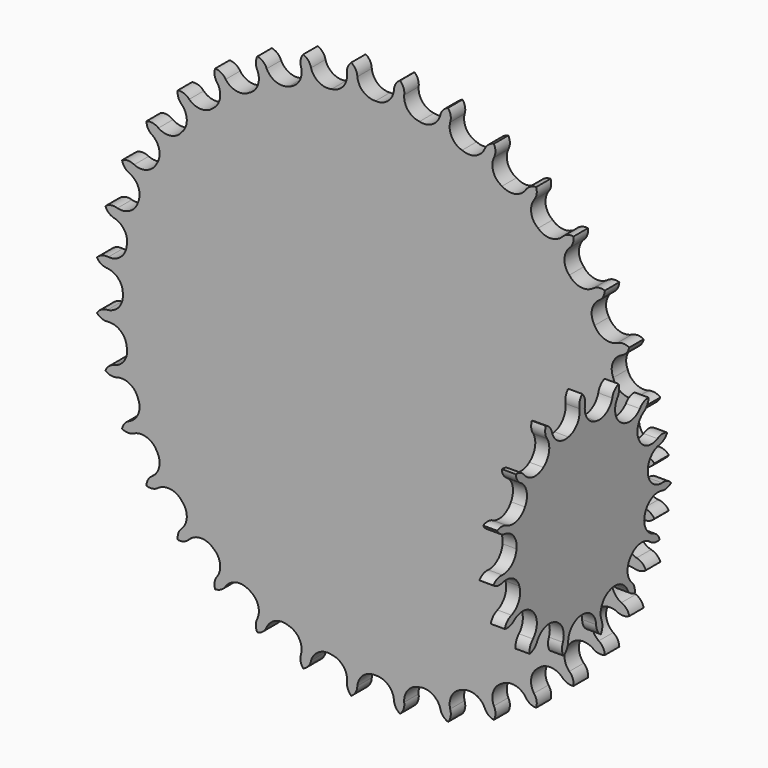
from build123d import *

# Parameters (mm, degrees)
F3_DEPTH  = 5
F4_DEPTH  = 3.8744
F5_SCALE  = 1.2905224035
F10_DEPTH = 5


with BuildPart() as f3:
    # F2 (on Front) → F3 (new body)
    with BuildSketch(Plane.XZ):
        with BuildLine():
            ThreePointArc((20.0489112304, -74.8235553482), (20.7684497693, -73.2376680729), (20.634084968, -71.5013730924))
            ThreePointArc((20.634084968, -71.5013730924), (21.1255658269, -67.9684537564), (23.9417031833, -65.7792888795))
            ThreePointArc((23.9417031833, -65.7792888795), (27.5061576147, -65.6461082686), (30.1535705707, -68.0365636874))
            ThreePointArc((30.1535705707, -68.0365636874), (31.1667100616, -69.4530108383), (32.7372972519, -70.2053605155))
            ThreePointArc((32.7372972519, -70.2053605155), (33.1705179483, -68.5186198753), (32.736689991, -66.8320353198))
            ThreePointArc((32.736689991, -66.8320353198), (32.6072191467, -63.2674442116), (35.0004285574, -60.6225205481))
            ThreePointArc((35.0004285574, -60.6225205481), (38.4876043464, -59.8724022336), (41.5098953781, -61.7668228279))
            ThreePointArc((41.5098953781, -61.7668228279), (42.7536064701, -62.9858211375), (44.4309770623, -63.4540113292))
            ThreePointArc((44.4309770623, -63.4540113292), (44.5647167245, -61.7176680849), (43.8446072542, -60.1320399728))
            ThreePointArc((43.8446072542, -60.1320399728), (43.0981186129, -56.6440853892), (44.9956836208, -53.6237676064))
            ThreePointArc((44.9956836208, -53.6237676064), (48.2996246956, -52.2795035536), (51.6049630194, -53.6203283123))
            ThreePointArc((51.6049630194, -53.6203283123), (53.0414561804, -54.6048391339), (54.7746441179, -54.7746441179))
            ThreePointArc((54.7746441179, -54.7746441179), (54.6048391339, -53.0414561804), (53.6203283123, -51.6049630194))
            ThreePointArc((53.6203283123, -51.6049630194), (52.2795035536, -48.2996246956), (53.6237676064, -44.9956836208))
            ThreePointArc((53.6237676064, -44.9956836208), (56.6440853892, -43.0981186129), (60.1320399728, -43.8446072542))
            ThreePointArc((60.1320399728, -43.8446072542), (61.7176680849, -44.5647167245), (63.4540113292, -44.4309770623))
            ThreePointArc((63.4540113292, -44.4309770623), (62.9858211375, -42.7536064701), (61.7668228279, -41.5098953781))
            ThreePointArc((61.7668228279, -41.5098953781), (59.8724022336, -38.4876043464), (60.6225205481, -35.0004285574))
            ThreePointArc((60.6225205481, -35.0004285574), (63.2674442116, -32.6072191467), (66.8320353198, -32.736689991))
            ThreePointArc((66.8320353198, -32.736689991), (68.5186198753, -33.1705179483), (70.2053605155, -32.7372972519))
            ThreePointArc((70.2053605155, -32.7372972519), (69.4530108383, -31.1667100616), (68.0365636874, -30.1535705707))
            ThreePointArc((68.0365636874, -30.1535705707), (65.6461082686, -27.5061576147), (65.7792888795, -23.9417031833))
            ThreePointArc((65.7792888795, -23.9417031833), (67.9684537564, -21.1255658269), (71.5013730924, -20.634084968))
            ThreePointArc((71.5013730924, -20.634084968), (73.2376680729, -20.7684497693), (74.8235553482, -20.0489112304))
            ThreePointArc((74.8235553482, -20.0489112304), (73.8099059497, -18.632828939), (72.2390479875, -17.88104478))
            ThreePointArc((72.2390479875, -17.88104478), (69.4251905225, -15.6889502028), (68.9373868041, -12.1555212731))
            ThreePointArc((68.9373868041, -12.1555212731), (70.6042762276, -9.0020228795), (73.9981778249, -7.9045237147))
            ThreePointArc((73.9981778249, -7.9045237147), (75.7314267861, -7.7353427534), (77.1682743143, -6.7513491864))
            ThreePointArc((77.1682743143, -6.7513491864), (75.9241244184, -5.5327987378), (74.2465853691, -5.0652124919))
            ThreePointArc((74.2465853691, -5.0652124919), (71.0948234931, -3.3950419779), (70.0008571148, 0))
            ThreePointArc((70.0008571148, 0), (71.0948234931, 3.3950419779), (74.2465853691, 5.0652124919))
            ThreePointArc((74.2465853691, 5.0652124919), (75.9241244184, 5.5327987378), (77.1682743143, 6.7513491864))
            ThreePointArc((77.1682743143, 6.7513491864), (75.7314267861, 7.7353427534), (73.9981778249, 7.9045237147))
            ThreePointArc((73.9981778249, 7.9045237147), (70.6042762276, 9.0020228795), (68.9373868041, 12.1555212731))
            ThreePointArc((68.9373868041, 12.1555212731), (69.4251905225, 15.6889502028), (72.2390479875, 17.88104478))
            ThreePointArc((72.2390479875, 17.88104478), (73.8099059497, 18.632828939), (74.8235553482, 20.0489112304))
            ThreePointArc((74.8235553482, 20.0489112304), (73.2376680729, 20.7684497693), (71.5013730924, 20.634084968))
            ThreePointArc((71.5013730924, 20.634084968), (67.9684537564, 21.1255658269), (65.7792888795, 23.9417031833))
            ThreePointArc((65.7792888795, 23.9417031833), (65.6461082686, 27.5061576147), (68.0365636874, 30.1535705707))
            ThreePointArc((68.0365636874, 30.1535705707), (69.4530108383, 31.1667100616), (70.2053605155, 32.7372972519))
            ThreePointArc((70.2053605155, 32.7372972519), (68.5186198753, 33.1705179483), (66.8320353198, 32.736689991))
            ThreePointArc((66.8320353198, 32.736689991), (63.2674442116, 32.6072191467), (60.6225205481, 35.0004285574))
            ThreePointArc((60.6225205481, 35.0004285574), (59.8724022336, 38.4876043464), (61.7668228279, 41.5098953781))
            ThreePointArc((61.7668228279, 41.5098953781), (62.9858211375, 42.7536064701), (63.4540113292, 44.4309770623))
            ThreePointArc((63.4540113292, 44.4309770623), (61.7176680849, 44.5647167245), (60.1320399728, 43.8446072542))
            ThreePointArc((60.1320399728, 43.8446072542), (56.6440853892, 43.0981186129), (53.6237676064, 44.9956836208))
            ThreePointArc((53.6237676064, 44.9956836208), (52.2795035536, 48.2996246956), (53.6203283123, 51.6049630194))
            ThreePointArc((53.6203283123, 51.6049630194), (54.6048391339, 53.0414561804), (54.7746441179, 54.7746441179))
            ThreePointArc((54.7746441179, 54.7746441179), (53.0414561804, 54.6048391339), (51.6049630194, 53.6203283123))
            ThreePointArc((51.6049630194, 53.6203283123), (48.2996246956, 52.2795035536), (44.9956836208, 53.6237676064))
            ThreePointArc((44.9956836208, 53.6237676064), (43.0981186129, 56.6440853892), (43.8446072542, 60.1320399728))
            ThreePointArc((43.8446072542, 60.1320399728), (44.5647167245, 61.7176680849), (44.4309770623, 63.4540113292))
            ThreePointArc((44.4309770623, 63.4540113292), (42.7536064701, 62.9858211375), (41.5098953781, 61.7668228279))
            ThreePointArc((41.5098953781, 61.7668228279), (38.4876043464, 59.8724022336), (35.0004285574, 60.6225205481))
            ThreePointArc((35.0004285574, 60.6225205481), (32.6072191467, 63.2674442116), (32.736689991, 66.8320353198))
            ThreePointArc((32.736689991, 66.8320353198), (33.1705179483, 68.5186198753), (32.7372972519, 70.2053605155))
            ThreePointArc((32.7372972519, 70.2053605155), (31.1667100616, 69.4530108383), (30.1535705707, 68.0365636874))
            ThreePointArc((30.1535705707, 68.0365636874), (27.5061576147, 65.6461082686), (23.9417031833, 65.7792888795))
            ThreePointArc((23.9417031833, 65.7792888795), (21.1255658269, 67.9684537564), (20.634084968, 71.5013730924))
            ThreePointArc((20.634084968, 71.5013730924), (20.7684497693, 73.2376680729), (20.0489112304, 74.8235553482))
            ThreePointArc((20.0489112304, 74.8235553482), (18.632828939, 73.8099059497), (17.88104478, 72.2390479875))
            ThreePointArc((17.88104478, 72.2390479875), (15.6889502028, 69.4251905225), (12.1555212731, 68.9373868041))
            ThreePointArc((12.1555212731, 68.9373868041), (9.0020228795, 70.6042762276), (7.9045237147, 73.9981778249))
            ThreePointArc((7.9045237147, 73.9981778249), (7.7353427534, 75.7314267861), (6.7513491864, 77.1682743143))
            ThreePointArc((6.7513491864, 77.1682743143), (5.5327987378, 75.9241244184), (5.0652124919, 74.2465853691))
            ThreePointArc((5.0652124919, 74.2465853691), (3.3950419779, 71.0948234931), (0, 70.0008571148))
            ThreePointArc((0, 70.0008571148), (-3.3950419779, 71.0948234931), (-5.0652124919, 74.2465853691))
            ThreePointArc((-5.0652124919, 74.2465853691), (-5.5327987378, 75.9241244184), (-6.7513491864, 77.1682743143))
            ThreePointArc((-6.7513491864, 77.1682743143), (-7.7353427534, 75.7314267861), (-7.9045237147, 73.9981778249))
            ThreePointArc((-7.9045237147, 73.9981778249), (-9.0020228795, 70.6042762276), (-12.1555212731, 68.9373868041))
            ThreePointArc((-12.1555212731, 68.9373868041), (-15.6889502028, 69.4251905225), (-17.88104478, 72.2390479875))
            ThreePointArc((-17.88104478, 72.2390479875), (-18.632828939, 73.8099059497), (-20.0489112304, 74.8235553482))
            ThreePointArc((-20.0489112304, 74.8235553482), (-20.7684497693, 73.2376680729), (-20.634084968, 71.5013730924))
            ThreePointArc((-20.634084968, 71.5013730924), (-21.1255658269, 67.9684537564), (-23.9417031833, 65.7792888795))
            ThreePointArc((-23.9417031833, 65.7792888795), (-27.5061576147, 65.6461082686), (-30.1535705707, 68.0365636874))
            ThreePointArc((-30.1535705707, 68.0365636874), (-31.1667100616, 69.4530108383), (-32.7372972519, 70.2053605155))
            ThreePointArc((-32.7372972519, 70.2053605155), (-33.1705179483, 68.5186198753), (-32.736689991, 66.8320353198))
            ThreePointArc((-32.736689991, 66.8320353198), (-32.6072191467, 63.2674442116), (-35.0004285574, 60.6225205481))
            ThreePointArc((-35.0004285574, 60.6225205481), (-38.4876043464, 59.8724022336), (-41.5098953781, 61.7668228279))
            ThreePointArc((-41.5098953781, 61.7668228279), (-42.7536064701, 62.9858211375), (-44.4309770623, 63.4540113292))
            ThreePointArc((-44.4309770623, 63.4540113292), (-44.5647167245, 61.7176680849), (-43.8446072542, 60.1320399728))
            ThreePointArc((-43.8446072542, 60.1320399728), (-43.0981186129, 56.6440853892), (-44.9956836208, 53.6237676064))
            ThreePointArc((-44.9956836208, 53.6237676064), (-48.2996246956, 52.2795035536), (-51.6049630194, 53.6203283123))
            ThreePointArc((-51.6049630194, 53.6203283123), (-53.0414561804, 54.6048391339), (-54.7746441179, 54.7746441179))
            ThreePointArc((-54.7746441179, 54.7746441179), (-54.6048391339, 53.0414561804), (-53.6203283123, 51.6049630194))
            ThreePointArc((-53.6203283123, 51.6049630194), (-52.2795035536, 48.2996246956), (-53.6237676064, 44.9956836208))
            ThreePointArc((-53.6237676064, 44.9956836208), (-56.6440853892, 43.0981186129), (-60.1320399728, 43.8446072542))
            ThreePointArc((-60.1320399728, 43.8446072542), (-61.7176680849, 44.5647167245), (-63.4540113292, 44.4309770623))
            ThreePointArc((-63.4540113292, 44.4309770623), (-62.9858211375, 42.7536064701), (-61.7668228279, 41.5098953781))
            ThreePointArc((-61.7668228279, 41.5098953781), (-59.8724022336, 38.4876043464), (-60.6225205481, 35.0004285574))
            ThreePointArc((-60.6225205481, 35.0004285574), (-63.2674442116, 32.6072191467), (-66.8320353198, 32.736689991))
            ThreePointArc((-66.8320353198, 32.736689991), (-68.5186198753, 33.1705179483), (-70.2053605155, 32.7372972519))
            ThreePointArc((-70.2053605155, 32.7372972519), (-69.4530108383, 31.1667100616), (-68.0365636874, 30.1535705707))
            ThreePointArc((-68.0365636874, 30.1535705707), (-65.6461082686, 27.5061576147), (-65.7792888795, 23.9417031833))
            ThreePointArc((-65.7792888795, 23.9417031833), (-67.9684537564, 21.1255658269), (-71.5013730924, 20.634084968))
            ThreePointArc((-71.5013730924, 20.634084968), (-73.2376680729, 20.7684497693), (-74.8235553482, 20.0489112304))
            ThreePointArc((-74.8235553482, 20.0489112304), (-73.8099059497, 18.632828939), (-72.2390479875, 17.88104478))
            ThreePointArc((-72.2390479875, 17.88104478), (-69.4251905225, 15.6889502028), (-68.9373868041, 12.1555212731))
            ThreePointArc((-68.9373868041, 12.1555212731), (-70.6042762276, 9.0020228795), (-73.9981778249, 7.9045237147))
            ThreePointArc((-73.9981778249, 7.9045237147), (-75.7314267861, 7.7353427534), (-77.1682743143, 6.7513491864))
            ThreePointArc((-77.1682743143, 6.7513491864), (-75.9241244184, 5.5327987378), (-74.2465853691, 5.0652124919))
            ThreePointArc((-74.2465853691, 5.0652124919), (-71.0948234931, 3.3950419779), (-70.0008571148, 0))
            ThreePointArc((-70.0008571148, 0), (-71.0948234931, -3.3950419779), (-74.2465853691, -5.0652124919))
            ThreePointArc((-74.2465853691, -5.0652124919), (-75.9241244184, -5.5327987378), (-77.1682743143, -6.7513491864))
            ThreePointArc((-77.1682743143, -6.7513491864), (-75.7314267861, -7.7353427534), (-73.9981778249, -7.9045237147))
            ThreePointArc((-73.9981778249, -7.9045237147), (-70.6042762276, -9.0020228795), (-68.9373868041, -12.1555212731))
            ThreePointArc((-68.9373868041, -12.1555212731), (-69.4251905225, -15.6889502028), (-72.2390479875, -17.88104478))
            ThreePointArc((-72.2390479875, -17.88104478), (-73.8099059497, -18.632828939), (-74.8235553482, -20.0489112304))
            ThreePointArc((-74.8235553482, -20.0489112304), (-73.2376680729, -20.7684497693), (-71.5013730924, -20.634084968))
            ThreePointArc((-71.5013730924, -20.634084968), (-67.9684537564, -21.1255658269), (-65.7792888795, -23.9417031833))
            ThreePointArc((-65.7792888795, -23.9417031833), (-65.6461082686, -27.5061576147), (-68.0365636874, -30.1535705707))
            ThreePointArc((-68.0365636874, -30.1535705707), (-69.4530108383, -31.1667100616), (-70.2053605155, -32.7372972519))
            ThreePointArc((-70.2053605155, -32.7372972519), (-68.5186198753, -33.1705179483), (-66.8320353198, -32.736689991))
            ThreePointArc((-66.8320353198, -32.736689991), (-63.2674442116, -32.6072191467), (-60.6225205481, -35.0004285574))
            ThreePointArc((-60.6225205481, -35.0004285574), (-59.8724022336, -38.4876043464), (-61.7668228279, -41.5098953781))
            ThreePointArc((-61.7668228279, -41.5098953781), (-62.9858211375, -42.7536064701), (-63.4540113292, -44.4309770623))
            ThreePointArc((-63.4540113292, -44.4309770623), (-61.7176680849, -44.5647167245), (-60.1320399728, -43.8446072542))
            ThreePointArc((-60.1320399728, -43.8446072542), (-56.6440853892, -43.0981186129), (-53.6237676064, -44.9956836208))
            ThreePointArc((-53.6237676064, -44.9956836208), (-52.2795035536, -48.2996246956), (-53.6203283123, -51.6049630194))
            ThreePointArc((-53.6203283123, -51.6049630194), (-54.6048391339, -53.0414561804), (-54.7746441179, -54.7746441179))
            ThreePointArc((-54.7746441179, -54.7746441179), (-53.0414561804, -54.6048391339), (-51.6049630194, -53.6203283123))
            ThreePointArc((-51.6049630194, -53.6203283123), (-48.2996246956, -52.2795035536), (-44.9956836208, -53.6237676064))
            ThreePointArc((-44.9956836208, -53.6237676064), (-43.0981186129, -56.6440853892), (-43.8446072542, -60.1320399728))
            ThreePointArc((-43.8446072542, -60.1320399728), (-44.5647167245, -61.7176680849), (-44.4309770623, -63.4540113292))
            ThreePointArc((-44.4309770623, -63.4540113292), (-42.7536064701, -62.9858211375), (-41.5098953781, -61.7668228279))
            ThreePointArc((-41.5098953781, -61.7668228279), (-38.4876043464, -59.8724022336), (-35.0004285574, -60.6225205481))
            ThreePointArc((-35.0004285574, -60.6225205481), (-32.6072191467, -63.2674442116), (-32.736689991, -66.8320353198))
            ThreePointArc((-32.736689991, -66.8320353198), (-33.1705179483, -68.5186198753), (-32.7372972519, -70.2053605155))
            ThreePointArc((-32.7372972519, -70.2053605155), (-31.1667100616, -69.4530108383), (-30.1535705707, -68.0365636874))
            ThreePointArc((-30.1535705707, -68.0365636874), (-27.5061576147, -65.6461082686), (-23.9417031833, -65.7792888795))
            ThreePointArc((-23.9417031833, -65.7792888795), (-21.1255658269, -67.9684537564), (-20.634084968, -71.5013730924))
            ThreePointArc((-20.634084968, -71.5013730924), (-20.7684497693, -73.2376680729), (-20.0489112304, -74.8235553482))
            ThreePointArc((-20.0489112304, -74.8235553482), (-18.632828939, -73.8099059497), (-17.88104478, -72.2390479875))
            ThreePointArc((-17.88104478, -72.2390479875), (-15.6889502028, -69.4251905225), (-12.1555212731, -68.9373868041))
            ThreePointArc((-12.1555212731, -68.9373868041), (-9.0020228795, -70.6042762276), (-7.9045237147, -73.9981778249))
            ThreePointArc((-7.9045237147, -73.9981778249), (-7.7353427534, -75.7314267861), (-6.7513491864, -77.1682743143))
            ThreePointArc((-6.7513491864, -77.1682743143), (-5.5327987378, -75.9241244184), (-5.0652124919, -74.2465853691))
            ThreePointArc((-5.0652124919, -74.2465853691), (-3.3950419779, -71.0948234931), (0, -70.0008571148))
            ThreePointArc((0, -70.0008571148), (3.3950419779, -71.0948234931), (5.0652124919, -74.2465853691))
            ThreePointArc((5.0652124919, -74.2465853691), (5.5327987378, -75.9241244184), (6.7513491864, -77.1682743143))
            ThreePointArc((6.7513491864, -77.1682743143), (7.7353427534, -75.7314267861), (7.9045237147, -73.9981778249))
            ThreePointArc((7.9045237147, -73.9981778249), (9.0020228795, -70.6042762276), (12.1555212731, -68.9373868041))
            ThreePointArc((12.1555212731, -68.9373868041), (15.6889502028, -69.4251905225), (17.88104478, -72.2390479875))
            ThreePointArc((17.88104478, -72.2390479875), (18.632828939, -73.8099059497), (20.0489112304, -74.8235553482))
        make_face()
    extrude(amount=F3_DEPTH)

    # F2 (on Front) → F4 (join)
    with BuildSketch(Plane.XZ):
        with BuildLine():
            ThreePointArc((20.0489112304, -74.8235553482), (20.7684497693, -73.2376680729), (20.634084968, -71.5013730924))
            ThreePointArc((20.634084968, -71.5013730924), (21.1255658269, -67.9684537564), (23.9417031833, -65.7792888795))
            ThreePointArc((23.9417031833, -65.7792888795), (27.5061576147, -65.6461082686), (30.1535705707, -68.0365636874))
            ThreePointArc((30.1535705707, -68.0365636874), (31.1667100616, -69.4530108383), (32.7372972519, -70.2053605155))
            ThreePointArc((32.7372972519, -70.2053605155), (33.1705179483, -68.5186198753), (32.736689991, -66.8320353198))
            ThreePointArc((32.736689991, -66.8320353198), (32.6072191467, -63.2674442116), (35.0004285574, -60.6225205481))
            ThreePointArc((35.0004285574, -60.6225205481), (38.4876043464, -59.8724022336), (41.5098953781, -61.7668228279))
            ThreePointArc((41.5098953781, -61.7668228279), (42.7536064701, -62.9858211375), (44.4309770623, -63.4540113292))
            ThreePointArc((44.4309770623, -63.4540113292), (44.5647167245, -61.7176680849), (43.8446072542, -60.1320399728))
            ThreePointArc((43.8446072542, -60.1320399728), (43.0981186129, -56.6440853892), (44.9956836208, -53.6237676064))
            ThreePointArc((44.9956836208, -53.6237676064), (48.2996246956, -52.2795035536), (51.6049630194, -53.6203283123))
            ThreePointArc((51.6049630194, -53.6203283123), (53.0414561804, -54.6048391339), (54.7746441179, -54.7746441179))
            ThreePointArc((54.7746441179, -54.7746441179), (54.6048391339, -53.0414561804), (53.6203283123, -51.6049630194))
            ThreePointArc((53.6203283123, -51.6049630194), (52.2795035536, -48.2996246956), (53.6237676064, -44.9956836208))
            ThreePointArc((53.6237676064, -44.9956836208), (56.6440853892, -43.0981186129), (60.1320399728, -43.8446072542))
            ThreePointArc((60.1320399728, -43.8446072542), (61.7176680849, -44.5647167245), (63.4540113292, -44.4309770623))
            ThreePointArc((63.4540113292, -44.4309770623), (62.9858211375, -42.7536064701), (61.7668228279, -41.5098953781))
            ThreePointArc((61.7668228279, -41.5098953781), (59.8724022336, -38.4876043464), (60.6225205481, -35.0004285574))
            ThreePointArc((60.6225205481, -35.0004285574), (63.2674442116, -32.6072191467), (66.8320353198, -32.736689991))
            ThreePointArc((66.8320353198, -32.736689991), (68.5186198753, -33.1705179483), (70.2053605155, -32.7372972519))
            ThreePointArc((70.2053605155, -32.7372972519), (69.4530108383, -31.1667100616), (68.0365636874, -30.1535705707))
            ThreePointArc((68.0365636874, -30.1535705707), (65.6461082686, -27.5061576147), (65.7792888795, -23.9417031833))
            ThreePointArc((65.7792888795, -23.9417031833), (67.9684537564, -21.1255658269), (71.5013730924, -20.634084968))
            ThreePointArc((71.5013730924, -20.634084968), (73.2376680729, -20.7684497693), (74.8235553482, -20.0489112304))
            ThreePointArc((74.8235553482, -20.0489112304), (73.8099059497, -18.632828939), (72.2390479875, -17.88104478))
            ThreePointArc((72.2390479875, -17.88104478), (69.4251905225, -15.6889502028), (68.9373868041, -12.1555212731))
            ThreePointArc((68.9373868041, -12.1555212731), (70.6042762276, -9.0020228795), (73.9981778249, -7.9045237147))
            ThreePointArc((73.9981778249, -7.9045237147), (75.7314267861, -7.7353427534), (77.1682743143, -6.7513491864))
            ThreePointArc((77.1682743143, -6.7513491864), (75.9241244184, -5.5327987378), (74.2465853691, -5.0652124919))
            ThreePointArc((74.2465853691, -5.0652124919), (71.0948234931, -3.3950419779), (70.0008571148, 0))
            ThreePointArc((70.0008571148, 0), (71.0948234931, 3.3950419779), (74.2465853691, 5.0652124919))
            ThreePointArc((74.2465853691, 5.0652124919), (75.9241244184, 5.5327987378), (77.1682743143, 6.7513491864))
            ThreePointArc((77.1682743143, 6.7513491864), (75.7314267861, 7.7353427534), (73.9981778249, 7.9045237147))
            ThreePointArc((73.9981778249, 7.9045237147), (70.6042762276, 9.0020228795), (68.9373868041, 12.1555212731))
            ThreePointArc((68.9373868041, 12.1555212731), (69.4251905225, 15.6889502028), (72.2390479875, 17.88104478))
            ThreePointArc((72.2390479875, 17.88104478), (73.8099059497, 18.632828939), (74.8235553482, 20.0489112304))
            ThreePointArc((74.8235553482, 20.0489112304), (73.2376680729, 20.7684497693), (71.5013730924, 20.634084968))
            ThreePointArc((71.5013730924, 20.634084968), (67.9684537564, 21.1255658269), (65.7792888795, 23.9417031833))
            ThreePointArc((65.7792888795, 23.9417031833), (65.6461082686, 27.5061576147), (68.0365636874, 30.1535705707))
            ThreePointArc((68.0365636874, 30.1535705707), (69.4530108383, 31.1667100616), (70.2053605155, 32.7372972519))
            ThreePointArc((70.2053605155, 32.7372972519), (68.5186198753, 33.1705179483), (66.8320353198, 32.736689991))
            ThreePointArc((66.8320353198, 32.736689991), (63.2674442116, 32.6072191467), (60.6225205481, 35.0004285574))
            ThreePointArc((60.6225205481, 35.0004285574), (59.8724022336, 38.4876043464), (61.7668228279, 41.5098953781))
            ThreePointArc((61.7668228279, 41.5098953781), (62.9858211375, 42.7536064701), (63.4540113292, 44.4309770623))
            ThreePointArc((63.4540113292, 44.4309770623), (61.7176680849, 44.5647167245), (60.1320399728, 43.8446072542))
            ThreePointArc((60.1320399728, 43.8446072542), (56.6440853892, 43.0981186129), (53.6237676064, 44.9956836208))
            ThreePointArc((53.6237676064, 44.9956836208), (52.2795035536, 48.2996246956), (53.6203283123, 51.6049630194))
            ThreePointArc((53.6203283123, 51.6049630194), (54.6048391339, 53.0414561804), (54.7746441179, 54.7746441179))
            ThreePointArc((54.7746441179, 54.7746441179), (53.0414561804, 54.6048391339), (51.6049630194, 53.6203283123))
            ThreePointArc((51.6049630194, 53.6203283123), (48.2996246956, 52.2795035536), (44.9956836208, 53.6237676064))
            ThreePointArc((44.9956836208, 53.6237676064), (43.0981186129, 56.6440853892), (43.8446072542, 60.1320399728))
            ThreePointArc((43.8446072542, 60.1320399728), (44.5647167245, 61.7176680849), (44.4309770623, 63.4540113292))
            ThreePointArc((44.4309770623, 63.4540113292), (42.7536064701, 62.9858211375), (41.5098953781, 61.7668228279))
            ThreePointArc((41.5098953781, 61.7668228279), (38.4876043464, 59.8724022336), (35.0004285574, 60.6225205481))
            ThreePointArc((35.0004285574, 60.6225205481), (32.6072191467, 63.2674442116), (32.736689991, 66.8320353198))
            ThreePointArc((32.736689991, 66.8320353198), (33.1705179483, 68.5186198753), (32.7372972519, 70.2053605155))
            ThreePointArc((32.7372972519, 70.2053605155), (31.1667100616, 69.4530108383), (30.1535705707, 68.0365636874))
            ThreePointArc((30.1535705707, 68.0365636874), (27.5061576147, 65.6461082686), (23.9417031833, 65.7792888795))
            ThreePointArc((23.9417031833, 65.7792888795), (21.1255658269, 67.9684537564), (20.634084968, 71.5013730924))
            ThreePointArc((20.634084968, 71.5013730924), (20.7684497693, 73.2376680729), (20.0489112304, 74.8235553482))
            ThreePointArc((20.0489112304, 74.8235553482), (18.632828939, 73.8099059497), (17.88104478, 72.2390479875))
            ThreePointArc((17.88104478, 72.2390479875), (15.6889502028, 69.4251905225), (12.1555212731, 68.9373868041))
            ThreePointArc((12.1555212731, 68.9373868041), (9.0020228795, 70.6042762276), (7.9045237147, 73.9981778249))
            ThreePointArc((7.9045237147, 73.9981778249), (7.7353427534, 75.7314267861), (6.7513491864, 77.1682743143))
            ThreePointArc((6.7513491864, 77.1682743143), (5.5327987378, 75.9241244184), (5.0652124919, 74.2465853691))
            ThreePointArc((5.0652124919, 74.2465853691), (3.3950419779, 71.0948234931), (0, 70.0008571148))
            ThreePointArc((0, 70.0008571148), (-3.3950419779, 71.0948234931), (-5.0652124919, 74.2465853691))
            ThreePointArc((-5.0652124919, 74.2465853691), (-5.5327987378, 75.9241244184), (-6.7513491864, 77.1682743143))
            ThreePointArc((-6.7513491864, 77.1682743143), (-7.7353427534, 75.7314267861), (-7.9045237147, 73.9981778249))
            ThreePointArc((-7.9045237147, 73.9981778249), (-9.0020228795, 70.6042762276), (-12.1555212731, 68.9373868041))
            ThreePointArc((-12.1555212731, 68.9373868041), (-15.6889502028, 69.4251905225), (-17.88104478, 72.2390479875))
            ThreePointArc((-17.88104478, 72.2390479875), (-18.632828939, 73.8099059497), (-20.0489112304, 74.8235553482))
            ThreePointArc((-20.0489112304, 74.8235553482), (-20.7684497693, 73.2376680729), (-20.634084968, 71.5013730924))
            ThreePointArc((-20.634084968, 71.5013730924), (-21.1255658269, 67.9684537564), (-23.9417031833, 65.7792888795))
            ThreePointArc((-23.9417031833, 65.7792888795), (-27.5061576147, 65.6461082686), (-30.1535705707, 68.0365636874))
            ThreePointArc((-30.1535705707, 68.0365636874), (-31.1667100616, 69.4530108383), (-32.7372972519, 70.2053605155))
            ThreePointArc((-32.7372972519, 70.2053605155), (-33.1705179483, 68.5186198753), (-32.736689991, 66.8320353198))
            ThreePointArc((-32.736689991, 66.8320353198), (-32.6072191467, 63.2674442116), (-35.0004285574, 60.6225205481))
            ThreePointArc((-35.0004285574, 60.6225205481), (-38.4876043464, 59.8724022336), (-41.5098953781, 61.7668228279))
            ThreePointArc((-41.5098953781, 61.7668228279), (-42.7536064701, 62.9858211375), (-44.4309770623, 63.4540113292))
            ThreePointArc((-44.4309770623, 63.4540113292), (-44.5647167245, 61.7176680849), (-43.8446072542, 60.1320399728))
            ThreePointArc((-43.8446072542, 60.1320399728), (-43.0981186129, 56.6440853892), (-44.9956836208, 53.6237676064))
            ThreePointArc((-44.9956836208, 53.6237676064), (-48.2996246956, 52.2795035536), (-51.6049630194, 53.6203283123))
            ThreePointArc((-51.6049630194, 53.6203283123), (-53.0414561804, 54.6048391339), (-54.7746441179, 54.7746441179))
            ThreePointArc((-54.7746441179, 54.7746441179), (-54.6048391339, 53.0414561804), (-53.6203283123, 51.6049630194))
            ThreePointArc((-53.6203283123, 51.6049630194), (-52.2795035536, 48.2996246956), (-53.6237676064, 44.9956836208))
            ThreePointArc((-53.6237676064, 44.9956836208), (-56.6440853892, 43.0981186129), (-60.1320399728, 43.8446072542))
            ThreePointArc((-60.1320399728, 43.8446072542), (-61.7176680849, 44.5647167245), (-63.4540113292, 44.4309770623))
            ThreePointArc((-63.4540113292, 44.4309770623), (-62.9858211375, 42.7536064701), (-61.7668228279, 41.5098953781))
            ThreePointArc((-61.7668228279, 41.5098953781), (-59.8724022336, 38.4876043464), (-60.6225205481, 35.0004285574))
            ThreePointArc((-60.6225205481, 35.0004285574), (-63.2674442116, 32.6072191467), (-66.8320353198, 32.736689991))
            ThreePointArc((-66.8320353198, 32.736689991), (-68.5186198753, 33.1705179483), (-70.2053605155, 32.7372972519))
            ThreePointArc((-70.2053605155, 32.7372972519), (-69.4530108383, 31.1667100616), (-68.0365636874, 30.1535705707))
            ThreePointArc((-68.0365636874, 30.1535705707), (-65.6461082686, 27.5061576147), (-65.7792888795, 23.9417031833))
            ThreePointArc((-65.7792888795, 23.9417031833), (-67.9684537564, 21.1255658269), (-71.5013730924, 20.634084968))
            ThreePointArc((-71.5013730924, 20.634084968), (-73.2376680729, 20.7684497693), (-74.8235553482, 20.0489112304))
            ThreePointArc((-74.8235553482, 20.0489112304), (-73.8099059497, 18.632828939), (-72.2390479875, 17.88104478))
            ThreePointArc((-72.2390479875, 17.88104478), (-69.4251905225, 15.6889502028), (-68.9373868041, 12.1555212731))
            ThreePointArc((-68.9373868041, 12.1555212731), (-70.6042762276, 9.0020228795), (-73.9981778249, 7.9045237147))
            ThreePointArc((-73.9981778249, 7.9045237147), (-75.7314267861, 7.7353427534), (-77.1682743143, 6.7513491864))
            ThreePointArc((-77.1682743143, 6.7513491864), (-75.9241244184, 5.5327987378), (-74.2465853691, 5.0652124919))
            ThreePointArc((-74.2465853691, 5.0652124919), (-71.0948234931, 3.3950419779), (-70.0008571148, 0))
            ThreePointArc((-70.0008571148, 0), (-71.0948234931, -3.3950419779), (-74.2465853691, -5.0652124919))
            ThreePointArc((-74.2465853691, -5.0652124919), (-75.9241244184, -5.5327987378), (-77.1682743143, -6.7513491864))
            ThreePointArc((-77.1682743143, -6.7513491864), (-75.7314267861, -7.7353427534), (-73.9981778249, -7.9045237147))
            ThreePointArc((-73.9981778249, -7.9045237147), (-70.6042762276, -9.0020228795), (-68.9373868041, -12.1555212731))
            ThreePointArc((-68.9373868041, -12.1555212731), (-69.4251905225, -15.6889502028), (-72.2390479875, -17.88104478))
            ThreePointArc((-72.2390479875, -17.88104478), (-73.8099059497, -18.632828939), (-74.8235553482, -20.0489112304))
            ThreePointArc((-74.8235553482, -20.0489112304), (-73.2376680729, -20.7684497693), (-71.5013730924, -20.634084968))
            ThreePointArc((-71.5013730924, -20.634084968), (-67.9684537564, -21.1255658269), (-65.7792888795, -23.9417031833))
            ThreePointArc((-65.7792888795, -23.9417031833), (-65.6461082686, -27.5061576147), (-68.0365636874, -30.1535705707))
            ThreePointArc((-68.0365636874, -30.1535705707), (-69.4530108383, -31.1667100616), (-70.2053605155, -32.7372972519))
            ThreePointArc((-70.2053605155, -32.7372972519), (-68.5186198753, -33.1705179483), (-66.8320353198, -32.736689991))
            ThreePointArc((-66.8320353198, -32.736689991), (-63.2674442116, -32.6072191467), (-60.6225205481, -35.0004285574))
            ThreePointArc((-60.6225205481, -35.0004285574), (-59.8724022336, -38.4876043464), (-61.7668228279, -41.5098953781))
            ThreePointArc((-61.7668228279, -41.5098953781), (-62.9858211375, -42.7536064701), (-63.4540113292, -44.4309770623))
            ThreePointArc((-63.4540113292, -44.4309770623), (-61.7176680849, -44.5647167245), (-60.1320399728, -43.8446072542))
            ThreePointArc((-60.1320399728, -43.8446072542), (-56.6440853892, -43.0981186129), (-53.6237676064, -44.9956836208))
            ThreePointArc((-53.6237676064, -44.9956836208), (-52.2795035536, -48.2996246956), (-53.6203283123, -51.6049630194))
            ThreePointArc((-53.6203283123, -51.6049630194), (-54.6048391339, -53.0414561804), (-54.7746441179, -54.7746441179))
            ThreePointArc((-54.7746441179, -54.7746441179), (-53.0414561804, -54.6048391339), (-51.6049630194, -53.6203283123))
            ThreePointArc((-51.6049630194, -53.6203283123), (-48.2996246956, -52.2795035536), (-44.9956836208, -53.6237676064))
            ThreePointArc((-44.9956836208, -53.6237676064), (-43.0981186129, -56.6440853892), (-43.8446072542, -60.1320399728))
            ThreePointArc((-43.8446072542, -60.1320399728), (-44.5647167245, -61.7176680849), (-44.4309770623, -63.4540113292))
            ThreePointArc((-44.4309770623, -63.4540113292), (-42.7536064701, -62.9858211375), (-41.5098953781, -61.7668228279))
            ThreePointArc((-41.5098953781, -61.7668228279), (-38.4876043464, -59.8724022336), (-35.0004285574, -60.6225205481))
            ThreePointArc((-35.0004285574, -60.6225205481), (-32.6072191467, -63.2674442116), (-32.736689991, -66.8320353198))
            ThreePointArc((-32.736689991, -66.8320353198), (-33.1705179483, -68.5186198753), (-32.7372972519, -70.2053605155))
            ThreePointArc((-32.7372972519, -70.2053605155), (-31.1667100616, -69.4530108383), (-30.1535705707, -68.0365636874))
            ThreePointArc((-30.1535705707, -68.0365636874), (-27.5061576147, -65.6461082686), (-23.9417031833, -65.7792888795))
            ThreePointArc((-23.9417031833, -65.7792888795), (-21.1255658269, -67.9684537564), (-20.634084968, -71.5013730924))
            ThreePointArc((-20.634084968, -71.5013730924), (-20.7684497693, -73.2376680729), (-20.0489112304, -74.8235553482))
            ThreePointArc((-20.0489112304, -74.8235553482), (-18.632828939, -73.8099059497), (-17.88104478, -72.2390479875))
            ThreePointArc((-17.88104478, -72.2390479875), (-15.6889502028, -69.4251905225), (-12.1555212731, -68.9373868041))
            ThreePointArc((-12.1555212731, -68.9373868041), (-9.0020228795, -70.6042762276), (-7.9045237147, -73.9981778249))
            ThreePointArc((-7.9045237147, -73.9981778249), (-7.7353427534, -75.7314267861), (-6.7513491864, -77.1682743143))
            ThreePointArc((-6.7513491864, -77.1682743143), (-5.5327987378, -75.9241244184), (-5.0652124919, -74.2465853691))
            ThreePointArc((-5.0652124919, -74.2465853691), (-3.3950419779, -71.0948234931), (0, -70.0008571148))
            ThreePointArc((0, -70.0008571148), (3.3950419779, -71.0948234931), (5.0652124919, -74.2465853691))
            ThreePointArc((5.0652124919, -74.2465853691), (5.5327987378, -75.9241244184), (6.7513491864, -77.1682743143))
            ThreePointArc((6.7513491864, -77.1682743143), (7.7353427534, -75.7314267861), (7.9045237147, -73.9981778249))
            ThreePointArc((7.9045237147, -73.9981778249), (9.0020228795, -70.6042762276), (12.1555212731, -68.9373868041))
            ThreePointArc((12.1555212731, -68.9373868041), (15.6889502028, -69.4251905225), (17.88104478, -72.2390479875))
            ThreePointArc((17.88104478, -72.2390479875), (18.632828939, -73.8099059497), (20.0489112304, -74.8235553482))
        make_face()
    extrude(amount=F4_DEPTH)


with BuildPart() as f3_1:
    # F5: moved
    add(f3.part.scale(F5_SCALE))


with BuildPart() as f10:
    # F9 (on offset) → F10 (new body)
    with BuildSketch(Plane.YZ.offset(95)):
        with BuildLine():
            ThreePointArc((-25.554661374, 14.7539906234), (-29.0727784489, 11.8473035562), (-33.6237468937, 12.185923805))
            ThreePointArc((-33.6237468937, 12.185923805), (-35.7794571409, 12.8214088261), (-37.9744193385, 12.3386367961))
            ThreePointArc((-37.9744193385, 12.3386367961), (-36.482423898, 10.6578996103), (-34.3648889497, 9.9049231005))
            ThreePointArc((-34.3648889497, 9.9049231005), (-30.4840421486, 7.5038805009), (-29.346333438, 3.0844239338))
            ThreePointArc((-29.346333438, 3.0844239338), (-31.378037171, -1.0019139621), (-35.6732829849, -2.5436145999))
            ThreePointArc((-35.6732829849, -2.5436145999), (-37.9010973334, -2.8398764949), (-39.7099340038, -4.1736822459))
            ThreePointArc((-39.7099340038, -4.1736822459), (-37.6633109456, -5.1022628505), (-35.4225833742, -4.9288620643))
            ThreePointArc((-35.4225833742, -4.9288620643), (-30.9006614005, -5.5438410246), (-28.0637578474, -9.1184676749))
            ThreePointArc((-28.0637578474, -9.1184676749), (-28.2577482057, -13.6778914542), (-31.5545843664, -16.8333389325))
            ThreePointArc((-31.5545843664, -16.8333389325), (-33.4692934763, -18.0101213705), (-34.5792403265, -19.9643337109))
            ThreePointArc((-34.5792403265, -19.9643337109), (-32.3318693702, -19.9801977119), (-30.3553913293, -18.9104022009))
            ThreePointArc((-30.3553913293, -18.9104022009), (-25.9742755724, -17.6329820728), (-21.9287035738, -19.744693384))
            ThreePointArc((-21.9287035738, -19.744693384), (-20.2514378621, -23.9888372542), (-21.9798114465, -28.2124260376))
            ThreePointArc((-21.9798114465, -28.2124260376), (-23.2503447181, -30.0662526442), (-23.4694818542, -32.302970507))
            ThreePointArc((-23.4694818542, -32.302970507), (-21.4099538549, -31.4033748745), (-20.0394763534, -29.6221620013))
            ThreePointArc((-20.0394763534, -29.6221620013), (-16.5567015291, -26.6732203299), (-12.0019772362, -26.9568822321))
            ThreePointArc((-12.0019772362, -26.9568822321), (-8.7434699336, -30.1518951612), (-8.6045294473, -34.7133283789))
            ThreePointArc((-8.6045294473, -34.7133283789), (-9.0112001355, -36.9236556925), (-8.3016367558, -39.0561302391))
            ThreePointArc((-8.3016367558, -39.0561302391), (-6.7860628148, -37.3966232306), (-6.2585538631, -35.2119808828))
            ThreePointArc((-6.2585538631, -35.2119808828), (-4.2763233784, -31.1014164735), (0, -29.5079812467))
            ThreePointArc((0, -29.5079812467), (4.2763233784, -31.1014164735), (6.2585538631, -35.2119808828))
            ThreePointArc((6.2585538631, -35.2119808828), (6.7860628148, -37.3966232306), (8.3016367558, -39.0561302391))
            ThreePointArc((8.3016367558, -39.0561302391), (9.0112001355, -36.9236556925), (8.6045294473, -34.7133283789))
            ThreePointArc((8.6045294473, -34.7133283789), (8.7434699336, -30.1518951612), (12.0019772362, -26.9568822321))
            ThreePointArc((12.0019772362, -26.9568822321), (16.5567015291, -26.6732203299), (20.0394763534, -29.6221620013))
            ThreePointArc((20.0394763534, -29.6221620013), (21.4099538549, -31.4033748745), (23.4694818542, -32.302970507))
            ThreePointArc((23.4694818542, -32.302970507), (23.2503447181, -30.0662526442), (21.9798114465, -28.2124260376))
            ThreePointArc((21.9798114465, -28.2124260376), (20.2514378621, -23.9888372542), (21.9287035738, -19.744693384))
            ThreePointArc((21.9287035738, -19.744693384), (25.9742755724, -17.6329820728), (30.3553913293, -18.9104022009))
            ThreePointArc((30.3553913293, -18.9104022009), (32.3318693702, -19.9801977119), (34.5792403265, -19.9643337109))
            ThreePointArc((34.5792403265, -19.9643337109), (33.4692934763, -18.0101213705), (31.5545843664, -16.8333389325))
            ThreePointArc((31.5545843664, -16.8333389325), (28.2577482057, -13.6778914542), (28.0637578474, -9.1184676749))
            ThreePointArc((28.0637578474, -9.1184676749), (30.9006614005, -5.5438410246), (35.4225833742, -4.9288620643))
            ThreePointArc((35.4225833742, -4.9288620643), (37.6633109456, -5.1022628505), (39.7099340038, -4.1736822459))
            ThreePointArc((39.7099340038, -4.1736822459), (37.9010973334, -2.8398764949), (35.6732829849, -2.5436145999))
            ThreePointArc((35.6732829849, -2.5436145999), (31.378037171, -1.0019139621), (29.346333438, 3.0844239338))
            ThreePointArc((29.346333438, 3.0844239338), (30.4840421486, 7.5038805009), (34.3648889497, 9.9049231005))
            ThreePointArc((34.3648889497, 9.9049231005), (36.482423898, 10.6578996103), (37.9744193385, 12.3386367961))
            ThreePointArc((37.9744193385, 12.3386367961), (35.7794571409, 12.8214088261), (33.6237468937, 12.185923805))
            ThreePointArc((33.6237468937, 12.185923805), (29.0727784489, 11.8473035562), (25.554661374, 14.7539906234))
            ThreePointArc((25.554661374, 14.7539906234), (24.7964550705, 19.2541129172), (27.3651930305, 23.0260570779))
            ThreePointArc((27.3651930305, 23.0260570779), (28.9933943261, 24.5752144046), (29.6727825827, 26.717493443))
            ThreePointArc((29.6727825827, 26.717493443), (27.4712237625, 26.2657560822), (25.7603595024, 24.8084052784))
            ThreePointArc((25.7603595024, 24.8084052784), (21.7405722151, 22.6480146603), (17.3443562017, 23.8724582983))
            ThreePointArc((17.3443562017, 23.8724582983), (14.8213356419, 27.675134292), (15.6338066314, 32.1657766013))
            ThreePointArc((15.6338066314, 32.1657766013), (16.4911434785, 34.2432513695), (16.2404521496, 36.4766527529))
            ThreePointArc((16.2404521496, 36.4766527529), (14.4129662274, 35.1685154948), (13.4427719277, 33.1412881019))
            ThreePointArc((13.4427719277, 33.1412881019), (10.6492235384, 29.5326782788), (6.1350542736, 28.863161059))
            ThreePointArc((6.1350542736, 28.863161059), (2.2834726333, 31.310873527), (1.1991930371, 35.7437411334))
            ThreePointArc((1.1991930371, 35.7437411334), (1.1374241061, 37.9903190824), (0, 39.9286674218))
            ThreePointArc((0, 39.9286674218), (-1.1374241061, 37.9903190824), (-1.1991930371, 35.7437411334))
            ThreePointArc((-1.1991930371, 35.7437411334), (-2.2834726333, 31.310873527), (-6.1350542736, 28.863161059))
            ThreePointArc((-6.1350542736, 28.863161059), (-10.6492235384, 29.5326782788), (-13.4427719277, 33.1412881019))
            ThreePointArc((-13.4427719277, 33.1412881019), (-14.4129662274, 35.1685154948), (-16.2404521496, 36.4766527529))
            ThreePointArc((-16.2404521496, 36.4766527529), (-16.4911434785, 34.2432513695), (-15.6338066314, 32.1657766013))
            ThreePointArc((-15.6338066314, 32.1657766013), (-14.8213356419, 27.675134292), (-17.3443562017, 23.8724582983))
            ThreePointArc((-17.3443562017, 23.8724582983), (-21.7405722151, 22.6480146603), (-25.7603595024, 24.8084052784))
            ThreePointArc((-25.7603595024, 24.8084052784), (-27.4712237625, 26.2657560822), (-29.6727825827, 26.717493443))
            ThreePointArc((-29.6727825827, 26.717493443), (-28.9933943261, 24.5752144046), (-27.3651930305, 23.0260570779))
            ThreePointArc((-27.3651930305, 23.0260570779), (-24.7964550705, 19.2541129172), (-25.554661374, 14.7539906234))
        make_face()
    extrude(amount=F10_DEPTH)


with BuildPart() as f10_1:
    # F11: moved
    add(f10.part.moved(Location((0, -39.2, 4.1))))


solid = Compound([f3_1.part, f10_1.part])
